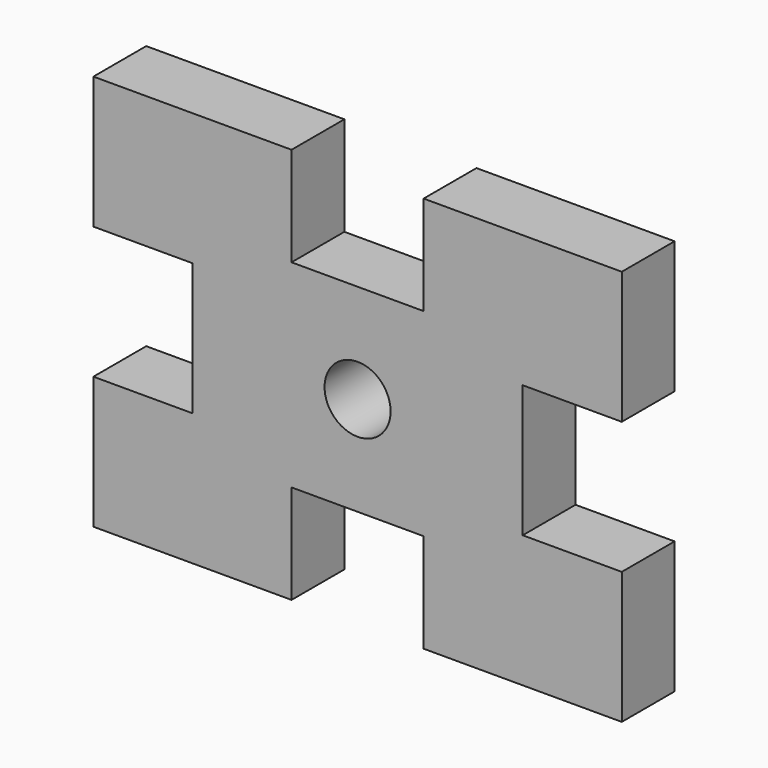
from build123d import *

# Parameters (mm, degrees)
F0_R     = 5
F1_DEPTH = 10


with BuildPart() as f1:
    # F0 (on Front) → F1 (new body)
    with BuildSketch(Plane.XZ):
        Polygon((-25, 10), (-25, 0), (-25, -10), (-40, -10), (-40, -30), (-10, -30), (-10, -15), (0, -15), (10, -15), (10, -30), (40, -30), (40, -10), (25, -10), (25, 0), (25, 10), (40, 10), (40, 30), (10, 30), (10, 15), (0, 15), (-10, 15), (-10, 30), (-40, 30), (-40, 10), align=None)
        Circle(F0_R, mode=Mode.SUBTRACT)
    extrude(amount=F1_DEPTH)


solid = f1.part
